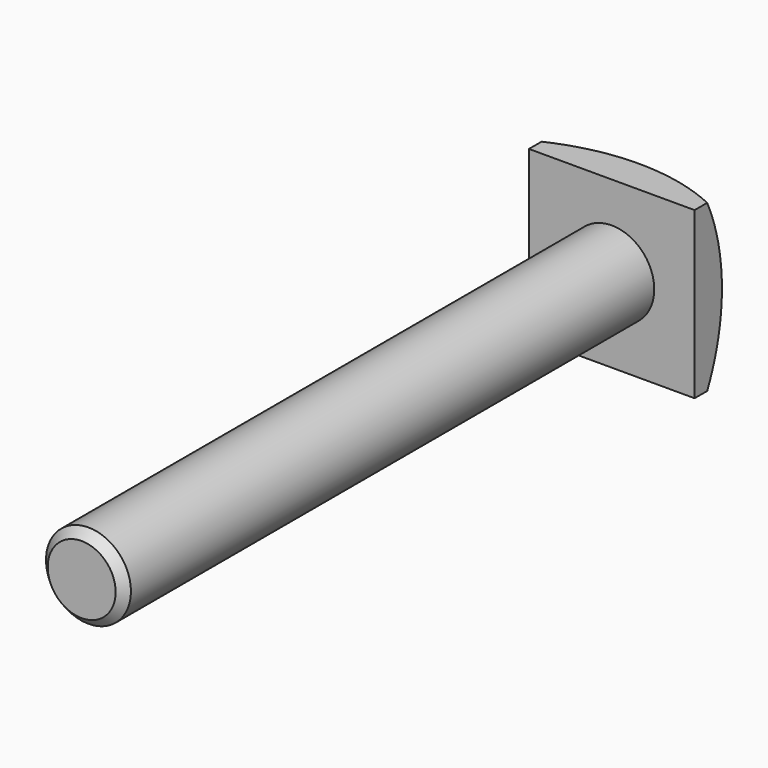
from build123d import *

# Parameters (mm, degrees)
F0_W     = 19.5
F0_H     = 19.5
F1_DEPTH = 6
F2_R     = 5
F3_DEPTH = 78
F4_SIZE  = 1


with BuildPart() as f1:
    # F0 (on Front) → F1 (new body)
    with BuildSketch(Plane.XZ):
        Rectangle(F0_W, F0_H)
    extrude(amount=F1_DEPTH)

    # F2 (on face) → F3 (join)
    with BuildSketch(Plane.XZ.offset(6)):
        Circle(F2_R)
    extrude(amount=F3_DEPTH)

    # F4
    f4_edges = [f1.edges().sort_by_distance(p)[0] for p in [
        (-5, -84, 0),
    ]]
    chamfer(f4_edges, length=F4_SIZE)

    # F5 (on Top) → F6 (revolve, cut)
    with BuildSketch(Plane.XY):
        with BuildLine():
            ThreePointArc((0, 0), (17.6776695297, -7.3223304703), (25, -25))
            Line((25, -25), (35.5271379938, -25))
            ThreePointArc((35.5271379938, -25), (25.1214801916, 0.1214801916), (0, 10.5271379938))
            Line((0, 10.5271379938), (0, 0))
        make_face()
    revolve(axis=Axis((0, 5.2635689969, 0), (0, -1, 0)), mode=Mode.SUBTRACT)


solid = f1.part
